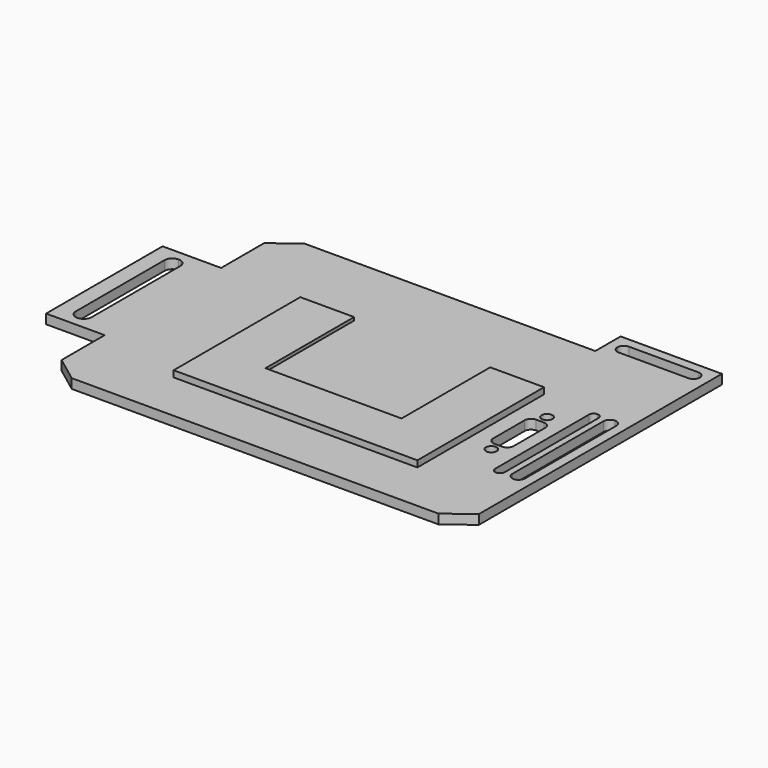
from build123d import *

# Parameters (mm, degrees)
SKETCH029_W     = 62
SKETCH029_H     = 40
PAD002_DEPTH    = 2
SKETCH030_W     = 40
SKETCH030_H     = 1
POCKET001_DEPTH = 9.5
SKETCH031_W     = 40
SKETCH031_H     = 1
POCKET002_DEPTH = 9.5
SKETCH032_W     = 43
SKETCH032_H     = 1
POCKET003_DEPTH = 5
PAD_DEPTH       = 3
SKETCH027_R     = 1.7
SKETCH027_W     = 6.5
SKETCH027_H     = 16.5
SKETCH027_W_2   = 4
SKETCH027_H_2   = 40
SKETCH027_W_3   = 3
SKETCH027_W_4   = 26
SKETCH027_H_3   = 4
SKETCH027_W_5   = 5
POCKET_DEPTH    = 3
FILLET001_R     = 1.9999
FILLET002_R     = 1.4999
FILLET003_R     = 2.4999
CHAMFER001_SIZE = 0.5
SKETCH028_W     = 77
SKETCH028_H     = 50
PAD001_DEPTH    = 2


with BuildPart() as body002:
    # Sketch029 → Pad002 (new body)
    with BuildSketch(Plane.XY):
        Rectangle(SKETCH029_W, SKETCH029_H)
    extrude(amount=PAD002_DEPTH)

    # Sketch030 (on Face2 of Pad002) → Pocket001 (cut)
    with BuildSketch(Plane.YZ.offset(31)):
        with Locations((0, 1.5)):
            Rectangle(SKETCH030_W, SKETCH030_H)
    extrude(amount=-POCKET001_DEPTH, mode=Mode.SUBTRACT)

    # Sketch031 (on Face7 of Pocket001) → Pocket002 (cut)
    with BuildSketch(Plane(origin=(-31, 0, 0), x_dir=(0, -1, 0), z_dir=(-1, 0, 0))):
        with Locations((0, 1.5)):
            Rectangle(SKETCH031_W, SKETCH031_H)
    extrude(amount=-POCKET002_DEPTH, mode=Mode.SUBTRACT)

    # Sketch032 (on Face10 of Pocket002) → Pocket003 (cut)
    with BuildSketch(Plane.XZ.offset(20)):
        with Locations((0, 1.5)):
            Rectangle(SKETCH032_W, SKETCH032_H)
    extrude(amount=-POCKET003_DEPTH, mode=Mode.SUBTRACT)


with BuildPart() as body002_1:
    # Body002 placement: moved
    add(body002.part.moved(Location((0, 0, 3))))


with BuildPart() as chest_mount:
    # Sketch → Pad (new body)
    with BuildSketch(Plane.XY):
        Polygon((-57.9, 46), (33.9, 46), (33.9, 56), (65.9, 56), (65.9, -40), (57.9, -46), (-57.9, -46), (-65.9, -40), (-65.9, -23), (-84.4, -23), (-84.4, 23), (-65.9, 23), (-65.9, 40), align=None)
    extrude(amount=PAD_DEPTH)

    # Sketch027 (on Face15 of Pad) → Pocket (cut)
    with BuildSketch(Plane.XY.offset(3)):
        with Locations((46.65, 11)):
            Circle(SKETCH027_R)
        with Locations((46.65, -11)):
            Circle(SKETCH027_R)
        with Locations((46.65, 0)):
            Rectangle(SKETCH027_W, SKETCH027_H)
        with Locations((60.9, 0)):
            Rectangle(SKETCH027_W_2, SKETCH027_H_2)
        with Locations((55.4, 0)):
            Rectangle(SKETCH027_W_3, SKETCH027_H_2)
        with Locations((49.9, 51)):
            Rectangle(SKETCH027_W_4, SKETCH027_H_3)
        with Locations((-76.9, 0)):
            Rectangle(SKETCH027_W_5, SKETCH027_H_2)
    extrude(amount=-POCKET_DEPTH, mode=Mode.SUBTRACT)

    # Fillet001
    fillet001_edges = [chest_mount.edges().sort_by_distance(p)[0] for p in [
        (62.9, 20, 1.5),
        (58.9, 20, 1.5),
        (62.9, -20, 1.5),
        (58.9, -20, 1.5),
        (36.9, 49, 1.5),
        (62.9, 49, 1.5),
        (62.9, 53, 1.5),
        (36.9, 53, 1.5),
        (49.9, -8.25, 1.5),
        (43.4, -8.25, 1.5),
        (43.4, 8.25, 1.5),
        (49.9, 8.25, 1.5),
    ]]
    fillet(fillet001_edges, radius=FILLET001_R)

    # Fillet002
    fillet002_edges = [chest_mount.edges().sort_by_distance(p)[0] for p in [
        (53.9, -20, 1.5),
        (56.9, -20, 1.5),
        (53.9, 20, 1.5),
        (56.9, 20, 1.5),
    ]]
    fillet(fillet002_edges, radius=FILLET002_R)

    # Fillet003
    fillet003_edges = [chest_mount.edges().sort_by_distance(p)[0] for p in [
        (-74.4, -20, 1.5),
        (-79.4, -20, 1.5),
        (-79.4, 20, 1.5),
        (-74.4, 20, 1.5),
    ]]
    fillet(fillet003_edges, radius=FILLET003_R)

    # Chamfer001
    chamfer001_edges = [chest_mount.edges().sort_by_distance(p)[0] for p in [
        (44.95, 11, 0),
        (44.95, -11, 0),
    ]]
    chamfer(chamfer001_edges, length=CHAMFER001_SIZE)

    # Sketch028 (on Face58 of Chamfer001) → Pad001 (join)
    with BuildSketch(Plane.XY.offset(3)):
        with Locations((0, -5)):
            Rectangle(SKETCH028_W, SKETCH028_H)
    extrude(amount=PAD001_DEPTH)

    # Boolean: cut Body002
    add(body002_1.part, mode=Mode.SUBTRACT)


solid = chest_mount.part
